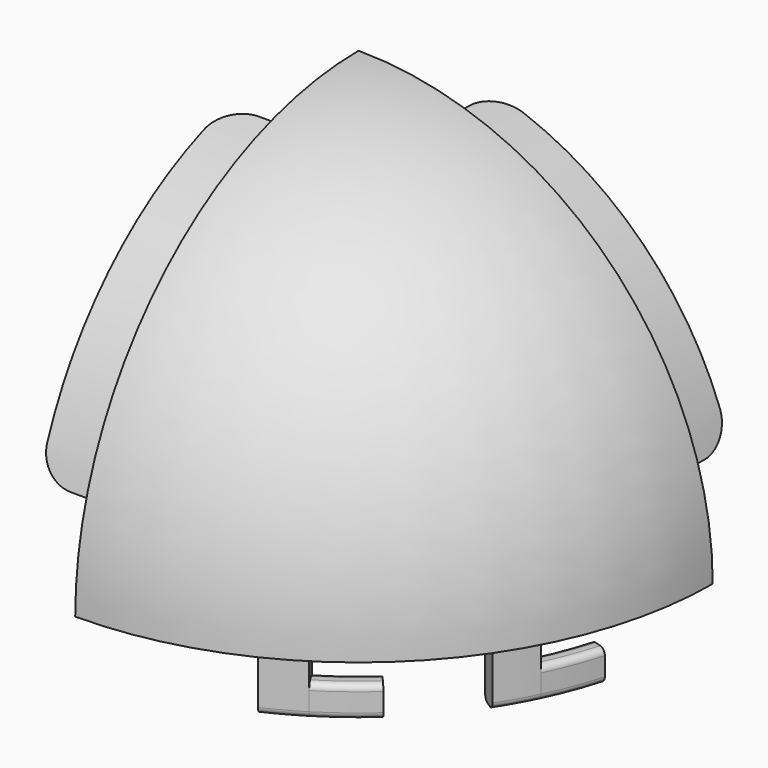
from build123d import *

# Parameters (mm, degrees)
F1_ANGLE  = 90
F3_DEPTH  = 20
F5_DEPTH  = 20
F7_DEPTH  = 20
F9_DEPTH  = 10
F11_DEPTH = 10
F12_R     = 2
F12_2_R   = 2
F12_3_R   = 2
F13_R     = 10


with BuildPart() as f1:
    # F0 (on Right) → F1 (revolve)
    with BuildSketch(Plane.YZ):
        with BuildLine():
            Line((0, 94.3), (0, 114.3))
            ThreePointArc((0, 114.3), (-80.822305, 80.822305), (-114.3, 0))
            Line((-114.3, 0), (-94.3, 0))
            ThreePointArc((-94.3, 0), (-66.680169, 66.680169), (0, 94.3))
        make_face()
    revolve(axis=Axis((0, 0, 104.3), (0, 0, 1)), revolution_arc=F1_ANGLE)

    # F2 (on face) → F3 (join)
    with BuildSketch(Plane(origin=(0, 0, 0), x_dir=(-1, 0, 0), z_dir=(0, 1, 0))):
        with BuildLine():
            Line((-26.218369, 97.848286), (-27.771284, 103.643841))
            ThreePointArc((-27.771284, 103.643841), (-75.872558, 75.872558), (-103.643841, 27.771284))
            Line((-103.643841, 27.771284), (-97.848286, 26.218369))
            ThreePointArc((-97.848286, 26.218369), (-71.629917, 71.629917), (-26.218369, 97.848286))
        make_face()
    extrude(amount=F3_DEPTH)

    # F4 (on face) → F5 (join)
    with BuildSketch(Plane.YZ):
        with BuildLine():
            ThreePointArc((-97.848286, 26.218369), (-71.629917, 71.629917), (-26.218369, 97.848286))
            Line((-26.218369, 97.848286), (-27.771284, 103.643841))
            ThreePointArc((-27.771284, 103.643841), (-75.872558, 75.872558), (-103.643841, 27.771284))
            Line((-103.643841, 27.771284), (-97.848286, 26.218369))
        make_face()
    extrude(amount=-F5_DEPTH)

    # F6 (on face) → F7 (join)
    with BuildSketch(Plane(origin=(0, 0, 0), x_dir=(1, 0, 0), z_dir=(0, 0, -1))):
        with BuildLine():
            Line((45.346939, 97.246826), (42.81123, 91.808979))
            ThreePointArc((42.81123, 91.808979), (48.336182, 89.024174), (53.680821, 85.907272))
            Line((53.680821, 85.907272), (56.860337, 90.995561))
            ThreePointArc((56.860337, 90.995561), (51.199135, 94.297076), (45.346939, 97.246826))
        make_face()
        with BuildLine():
            ThreePointArc((84.957329, 55.171934), (88.167032, 49.882507), (91.047837, 44.406997))
            Line((91.047837, 44.406997), (96.440601, 47.037224))
            ThreePointArc((96.440601, 47.037224), (93.389166, 52.837048), (89.989352, 58.439768))
            Line((89.989352, 58.439768), (84.957329, 55.171934))
        make_face()
    extrude(amount=F7_DEPTH)

    # F12
    f12_edges = [f1.edges().sort_by_distance(p)[0] for p in [
        (51.199135, -94.297076, -20),
        (48.336182, -89.024174, -20),
        (88.167032, -49.882507, -20),
        (93.389166, -52.837048, -20),
    ]]
    fillet(f12_edges, radius=F12_R)

    # F13
    f13_edges = [f1.edges().sort_by_distance(p)[0] for p in [
        (100.746064, 20, 26.994826),
        (26.994826, 20, 100.746064),
        (-20, -26.994826, 100.746064),
        (-20, -100.746064, 26.994826),
    ]]
    fillet(f13_edges, radius=F13_R)


with BuildPart() as f9:
    # F8 (on face) → F9 (new body)
    with BuildSketch(Plane(origin=(0, 0, -20), x_dir=(1, 0, 0), z_dir=(0, 0, -1))):
        with BuildLine():
            ThreePointArc((53.680821, 85.907272), (60.963862, 80.901777), (67.78293, 75.280571))
            Line((67.78293, 75.280571), (71.797714, 79.73944))
            ThreePointArc((71.797714, 79.73944), (64.574752, 85.69359), (56.860337, 90.995561))
            Line((56.860337, 90.995561), (53.680821, 85.907272))
        make_face()
    extrude(amount=-F9_DEPTH)

    # F12#2
    f12_2_edges = [f9.edges().sort_by_distance(p)[0] for p in [
        (60.963862, -80.901777, -20),
        (64.574752, -85.69359, -20),
        (64.574752, -85.69359, -10),
        (60.963862, -80.901777, -10),
    ]]
    fillet(f12_2_edges, radius=F12_2_R)


with BuildPart() as f11:
    # F10 (on face) → F11 (new body)
    with BuildSketch(Plane(origin=(0, 0, -20), x_dir=(1, 0, 0), z_dir=(0, 0, -1))):
        with BuildLine():
            ThreePointArc((91.047837, 44.406997), (94.571697, 36.302673), (97.37581, 27.922064))
            Line((97.37581, 27.922064), (103.14338, 29.575888))
            ThreePointArc((103.14338, 29.575888), (100.17318, 38.452881), (96.440601, 47.037224))
            Line((96.440601, 47.037224), (91.047837, 44.406997))
        make_face()
    extrude(amount=-F11_DEPTH)

    # F12#3
    f12_3_edges = [f11.edges().sort_by_distance(p)[0] for p in [
        (94.571697, -36.302673, -20),
        (100.17318, -38.452881, -20),
        (100.17318, -38.452881, -10),
        (94.571697, -36.302673, -10),
    ]]
    fillet(f12_3_edges, radius=F12_3_R)


solid = Compound([f1.part, f9.part, f11.part])
